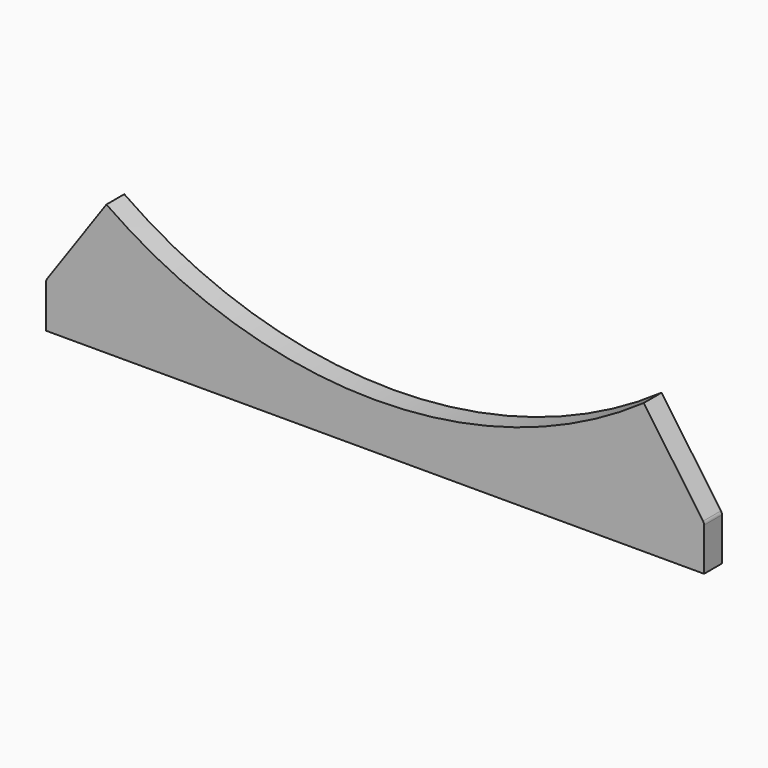
from build123d import *

# Parameters (mm, degrees)
F1_DEPTH = 20
F2_R     = 5


with BuildPart() as f1:
    # F0 (on Front) → F1 (new body)
    with BuildSketch(Plane.XZ):
        with BuildLine():
            Line((-295, 40), (-295, 0))
            Line((-295, 0), (295, 0))
            Line((295, 0), (295, 40))
            Line((295, 40), (240.902103, 117.259803))
            ThreePointArc((240.902103, 117.259803), (0, 41.303662), (-240.902103, 117.259803))
            Line((-240.902103, 117.259803), (-295, 40))
        make_face()
    extrude(amount=F1_DEPTH)

    # F2
    f2_edges = [f1.edges().sort_by_distance(p)[0] for p in [
        (-295, -10, 40),
        (295, -10, 40),
    ]]
    fillet(f2_edges, radius=F2_R)


solid = f1.part
